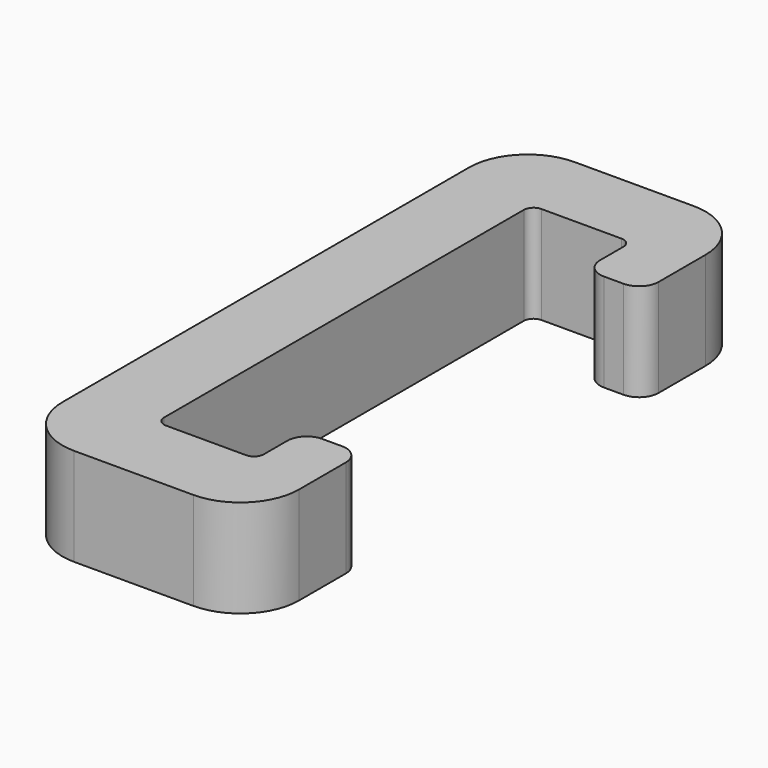
from build123d import *

# Parameters (mm, degrees)
F1_DEPTH = 5
F2_R     = 3
F3_R     = 0.5
F4_R     = 1


with BuildPart() as f1:
    # F0 (on Top) → F1 (new body)
    with BuildSketch(Plane.XY):
        Polygon((5.1, 0), (0, 0), (0, 24), (5.1, 24), (5.1, 21), (8.1, 21), (8.1, 28), (-4, 28), (-4, -4), (8.1, -4), (8.1, 3), (5.1, 3), align=None)
    extrude(amount=F1_DEPTH)

    # F2
    f2_edges = [f1.edges().sort_by_distance(p)[0] for p in [
        (-4, 28, 2.5),
        (-4, -4, 2.5),
        (8.1, -4, 2.5),
        (8.1, 28, 2.5),
    ]]
    fillet(f2_edges, radius=F2_R)

    # F3
    f3_edges = [f1.edges().sort_by_distance(p)[0] for p in [
        (0, 24, 2.5),
        (5.1, 24, 2.5),
        (0, 0, 2.5),
        (5.1, 0, 2.5),
    ]]
    fillet(f3_edges, radius=F3_R)

    # F4
    f4_edges = [f1.edges().sort_by_distance(p)[0] for p in [
        (5.1, 21, 2.5),
        (5.1, 3, 2.5),
        (8.1, 21, 2.5),
        (8.1, 3, 2.5),
    ]]
    fillet(f4_edges, radius=F4_R)


solid = f1.part
